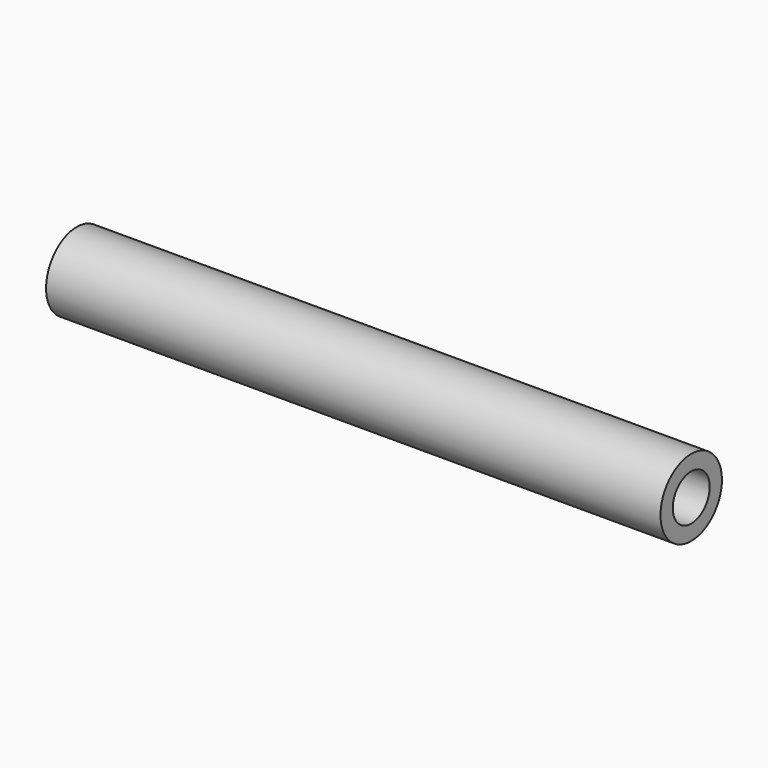
from build123d import *

# Parameters (mm, degrees)
CYLINDER007_R           = 1.5
CYLINDER007_DEPTH       = 44
CYLINDER007_PITCH_ANGLE = 90
CYLINDER006_R           = 2.5
CYLINDER006_DEPTH       = 40
CYLINDER006_PITCH_ANGLE = 90


with BuildPart() as cilindro007:
    # Cylinder007 → Cylinder007 (new body)
    with BuildSketch(Plane.XY):
        Circle(CYLINDER007_R)
    extrude(amount=CYLINDER007_DEPTH)


with BuildPart() as cilindro007_1:
    # Cylinder007 pitch: moved
    add(cilindro007.part.rotate(Axis((0, 0, 0), (0, 1, 0)), CYLINDER007_PITCH_ANGLE))


with BuildPart() as cilindro007_2:
    # Cylinder007 placement: moved
    add(cilindro007_1.part.moved(Location((-2, 0, 0))))


with BuildPart() as soporte4:
    # Cylinder006 → Cylinder006 (new body)
    with BuildSketch(Plane.XY):
        Circle(CYLINDER006_R)
    extrude(amount=CYLINDER006_DEPTH)


with BuildPart() as soporte4_1:
    # Cylinder006 pitch: moved
    add(soporte4.part.rotate(Axis((0, 0, 0), (0, 1, 0)), CYLINDER006_PITCH_ANGLE))


with BuildPart() as soporte4_2:
    # Cylinder006 placement: moved
    add(soporte4_1.part)

    # Cut003: cut Cilindro007
    add(cilindro007_2.part, mode=Mode.SUBTRACT)


with BuildPart() as soporte4_3:
    # Cut003 placement: moved
    add(soporte4_2.part.moved(Location((235, 206.5, 260))))


solid = soporte4_3.part
